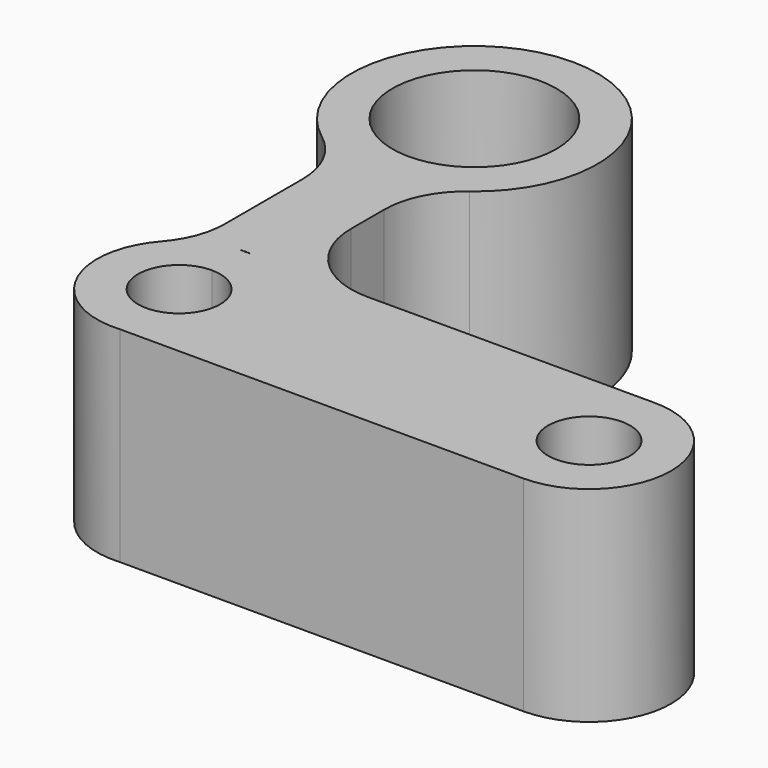
from build123d import *

# Parameters (mm, degrees)
F0_R     = 10
F1_DEPTH = 25


with BuildPart() as f1:
    # F0 (on Top) → F1 (new body)
    with BuildSketch(Plane.XY):
        with BuildLine():
            ThreePointArc((41.091912, -23.646501), (36.091912, -18.646501), (31.091912, -23.646501))
            ThreePointArc((31.091912, -23.646501), (36.091912, -28.646501), (41.091912, -23.646501))
        make_face()
        with BuildLine():
            ThreePointArc((-8.908088, 1.377323), (-7.85236, 5.849459), (-4.908088, 9.377323))
            ThreePointArc((-4.908088, 9.377323), (-13.908088, 36.377323), (-22.908088, 9.377323))
            ThreePointArc((-22.908088, 9.377323), (-19.963816, 5.849459), (-18.908088, 1.377323))
            Line((-18.908088, 1.377323), (-18.908088, -10.417745))
            ThreePointArc((-18.908088, -10.417745), (-19.553944, -13.953278), (-21.408088, -17.032123))
            ThreePointArc((-21.408088, -17.032123), (-22.858864, -28.105605), (-13.145628, -33.617392))
            Line((-13.145628, -33.617392), (36.086, -33.646499))
            ThreePointArc((36.086, -33.646499), (46.091625, -23.57069), (35.934383, -13.647742))
            Line((35.934383, -13.647742), (1.099337, -13.673606))
            ThreePointArc((1.099337, -13.673606), (-5.97653, -10.747301), (-8.908088, -3.673609))
            Line((-8.908088, -3.673609), (-8.908088, 1.377323))
        make_face()
        with BuildLine():
            ThreePointArc((-8.908088, -23.646501), (-17.443622, -27.182035), (-13.908088, -18.646501))
            ThreePointArc((-13.908088, -18.646501), (-10.372554, -20.110967), (-8.908088, -23.646501))
        make_face(mode=Mode.SUBTRACT)
        with BuildLine():
            ThreePointArc((-13.908088, -13.646501), (-13.474473, -13.655907), (-13.041674, -13.684105))
            Line((-13.041674, -13.684105), (-13.908088, -13.684105))
            Line((-13.908088, -13.684105), (-14.774502, -13.684105))
            ThreePointArc((-14.774502, -13.684105), (-14.341703, -13.655907), (-13.908088, -13.646501))
        make_face(mode=Mode.SUBTRACT)
        with BuildLine():
            ThreePointArc((41.091912, -23.646501), (36.091912, -28.646501), (31.091912, -23.646501))
            ThreePointArc((31.091912, -23.646501), (36.091912, -18.646501), (41.091912, -23.646501))
        make_face(mode=Mode.SUBTRACT)
        with Locations((-13.908088, 21.377323)):
            Circle(F0_R, mode=Mode.SUBTRACT)
    extrude(amount=F1_DEPTH)


solid = f1.part
